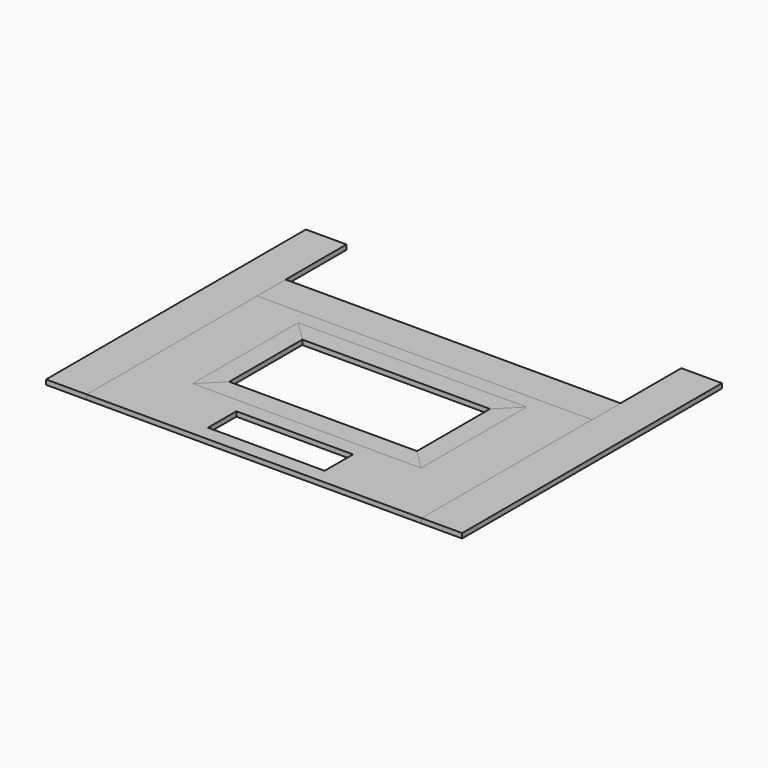
from build123d import *

# Parameters (mm, degrees)
SKETCH001_W   = 209.55
SKETCH001_H   = 133.35
SKETCH001_W_2 = 142.875
SKETCH001_H_2 = 82.55
SKETCH001_W_3 = 73.025
SKETCH001_H_3 = 22.225
PAD_DEPTH     = 3
SKETCH004_W   = 209.55
SKETCH004_H   = 22.3012
PAD001_DEPTH  = 3
SKETCH007_W   = 25.4
SKETCH007_H   = 203.2
PAD003_DEPTH  = 3
SKETCH009_W   = 25.4
SKETCH009_H   = 203.2
PAD004_DEPTH  = 3
PAD005_DEPTH  = 3
PAD006_DEPTH  = 3
PAD007_DEPTH  = 3
PAD008_DEPTH  = 3


with BuildPart() as main:
    # Sketch001 → Pad (new body)
    with BuildSketch(Plane.XY):
        with Locations((0, -34.925)):
            Rectangle(SKETCH001_W, SKETCH001_H)
        with Locations((0, -19.05)):
            Rectangle(SKETCH001_W_2, SKETCH001_H_2, mode=Mode.SUBTRACT)
        with Locations((0, -80.9625)):
            Rectangle(SKETCH001_W_3, SKETCH001_H_3, mode=Mode.SUBTRACT)
    extrude(amount=PAD_DEPTH)


with BuildPart() as top_flap:
    # Sketch004 → Pad001 (new body)
    with BuildSketch(Plane.XY):
        with Locations((0, 42.9006)):
            Rectangle(SKETCH004_W, SKETCH004_H)
    extrude(amount=PAD001_DEPTH)


with BuildPart() as side_l:
    # Sketch007 → Pad003 (new body)
    with BuildSketch(Plane.XY):
        with Locations((-117.475, 0)):
            Rectangle(SKETCH007_W, SKETCH007_H)
    extrude(amount=PAD003_DEPTH)


with BuildPart() as side_r:
    # Sketch009 → Pad004 (new body)
    with BuildSketch(Plane.XY):
        with Locations((117.475, 0)):
            Rectangle(SKETCH009_W, SKETCH009_H)
    extrude(amount=PAD004_DEPTH)


with BuildPart() as inner_right:
    # Sketch013 → Pad005 (new body)
    with BuildSketch(Plane.XY):
        Polygon((58.7375, 9.525), (71.4375, 22.225), (71.4375, -60.325), (58.7375, -47.625), align=None)
    extrude(amount=PAD005_DEPTH)


with BuildPart() as inner_left:
    # Sketch012 → Pad006 (new body)
    with BuildSketch(Plane.XY):
        Polygon((-71.4375, -60.325), (-58.7375, -47.625), (-58.7375, 9.525), (-71.4375, 22.225), align=None)
    extrude(amount=PAD006_DEPTH)


with BuildPart() as inner_bottom:
    # Sketch011 → Pad007 (new body)
    with BuildSketch(Plane.XY):
        Polygon((-71.4375, -60.325), (-58.7375, -47.625), (58.7375, -47.625), (71.4375, -60.325), align=None)
    extrude(amount=PAD007_DEPTH)


with BuildPart() as inner_top:
    # Sketch010 → Pad008 (new body)
    with BuildSketch(Plane.XY):
        Polygon((-58.7375, 9.525), (58.7375, 9.525), (71.4375, 22.225), (-71.4375, 22.225), align=None)
    extrude(amount=PAD008_DEPTH)


solid = Compound([main.part, top_flap.part, side_l.part, side_r.part, inner_right.part, inner_left.part, inner_bottom.part, inner_top.part])
